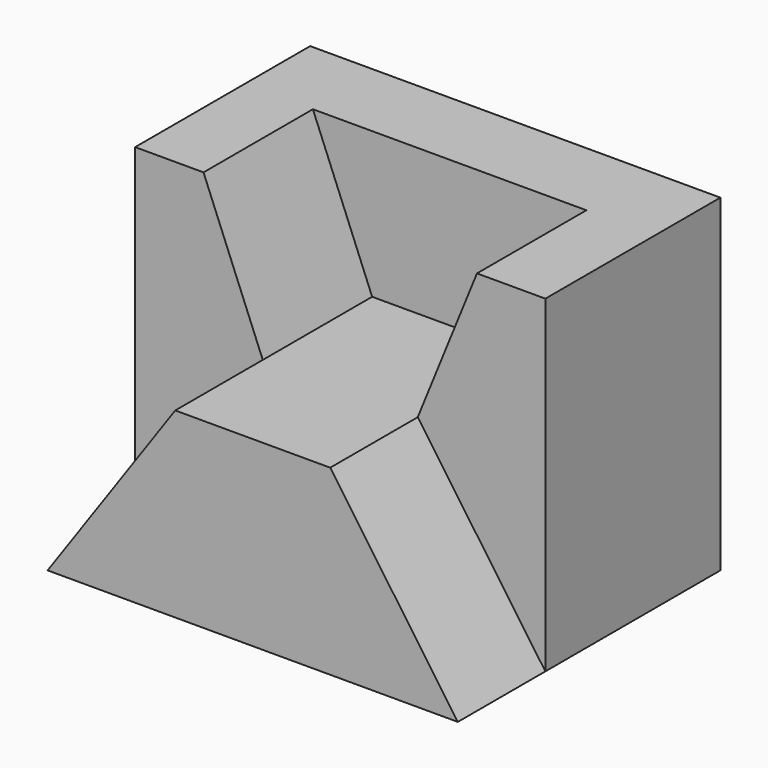
from build123d import *

# Parameters (mm, degrees)
F1_DEPTH = 24
F2_DEPTH = 15
F3_DEPTH = 12


with BuildPart() as f1:
    # F0 (on Front) → F1 (new body)
    with BuildSketch(Plane.XZ):
        Polygon((0, 36), (0, 0), (14, 20), (7.5, 36), align=None)
        Polygon((7.5, 36), (14, 20), (31, 20), (37.5, 36), align=None)
        Polygon((31, 20), (45, 0), (45, 36), (37.5, 36), align=None)
        Polygon((14, 20), (0, 0), (45, 0), (31, 20), align=None)
    extrude(amount=-F1_DEPTH)

    # F0 (on Front) → F2 (cut)
    with BuildSketch(Plane.XZ):
        Polygon((7.5, 36), (14, 20), (31, 20), (37.5, 36), align=None)
    extrude(amount=-F2_DEPTH, mode=Mode.SUBTRACT)

    # F0 (on Front) → F3 (join)
    with BuildSketch(Plane.XZ):
        Polygon((14, 20), (0, 0), (45, 0), (31, 20), align=None)
    extrude(amount=F3_DEPTH)


solid = f1.part
